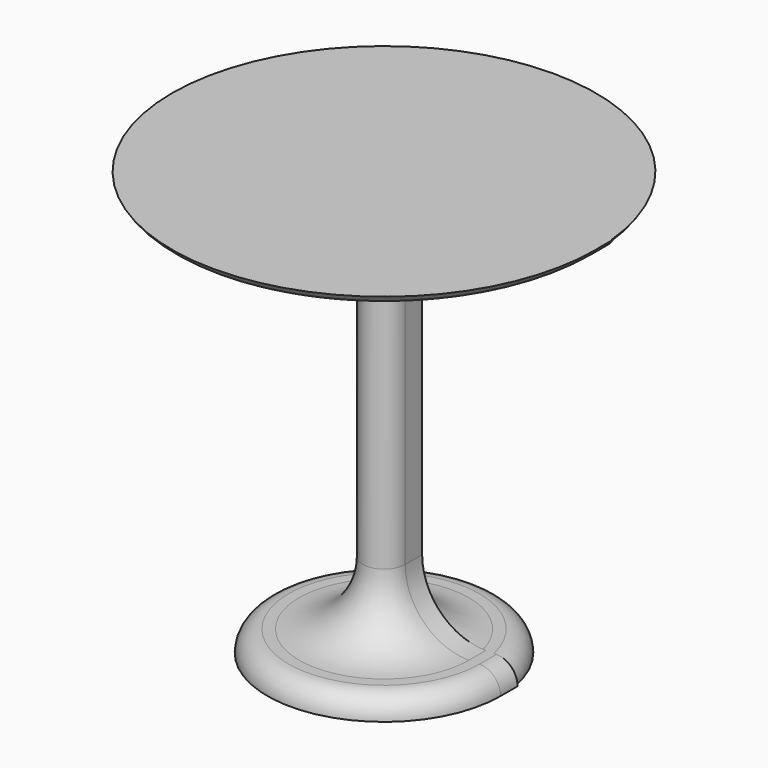
from build123d import *

# Parameters (mm, degrees)
F1_DEPTH = 25.4


with BuildPart() as f1:
    # F0 (on Front) → F1 (new body)
    with BuildSketch(Plane.XZ):
        with BuildLine():
            Line((0, 508), (0, 0))
            Line((0, 0), (139.7, 0))
            ThreePointArc((139.7, 0), (132.2605122421, 17.9605122421), (114.3, 25.4))
            Line((114.3, 25.4), (101.6, 25.4))
            ThreePointArc((101.6, 25.4), (47.7184632736, 47.7184632736), (25.4, 101.6))
            Line((25.4, 101.6), (25.4, 444.5))
            ThreePointArc((25.4, 444.5), (40.2789755157, 480.4210244843), (76.2, 495.3))
            Line((76.2, 495.3), (231.9974913336, 495.3))
            ThreePointArc((231.9974913336, 495.3), (244.6974913336, 498.7029547439), (253.9945365897, 508))
            Line((253.9945365897, 508), (0, 508))
        make_face()
    extrude(amount=F1_DEPTH)



with BuildPart() as f1b:
    # F0 (on Front) → F1, piece 2 (new body)
    with BuildSketch(Plane.XZ):
        with BuildLine():
            ThreePointArc((254.2368602746, 508.4292840834), (254.1167398846, 508.2140541592), (253.9945365897, 508))
            Line((253.9945365897, 508), (254, 508))
            Line((254, 508), (254.2368602746, 508.4292840834))
        make_face()
    extrude(amount=F1_DEPTH)


with BuildPart() as f1_1:
    add(f1.part)

    add(f1b.part)  # F2 merges F1b
    # F1_face (on face) → F2 (revolve)
    with BuildSketch(Plane(origin=(41.5744005551, -25.4, 248.8086421529), x_dir=(1, 0, 0), z_dir=(0, -1, 0))):
        with BuildLine():
            Line((212.4201360347, 259.1913578471), (-41.5744005551, 259.1913578471))
            Line((-41.5744005551, 259.1913578471), (-41.5744005551, -248.8086421529))
            Line((-41.5744005551, -248.8086421529), (98.1255994449, -248.8086421529))
            ThreePointArc((98.1255994449, -248.8086421529), (90.686111687, -230.8481299108), (72.7255994449, -223.4086421529))
            Line((72.7255994449, -223.4086421529), (60.0255994449, -223.4086421529))
            ThreePointArc((60.0255994449, -223.4086421529), (6.1440627185, -201.0901788793), (-16.1744005551, -147.2086421529))
            Line((-16.1744005551, -147.2086421529), (-16.1744005551, 195.6913578471))
            ThreePointArc((-16.1744005551, 195.6913578471), (-1.2954250394, 231.6123823314), (34.6255994449, 246.4913578471))
            Line((34.6255994449, 246.4913578471), (190.4230907785, 246.4913578471))
            ThreePointArc((190.4230907785, 246.4913578471), (203.1230907785, 249.894312591), (212.4201360347, 259.1913578471))
        make_face()
    revolve(axis=Axis((0, -25.4, 254), (0, 0, 1)))


solid = f1_1.part
